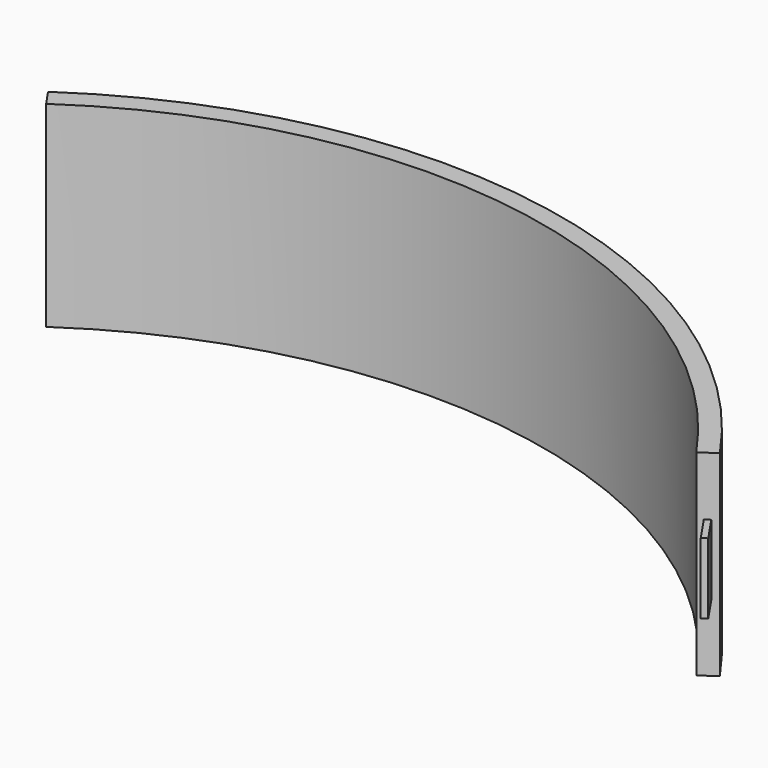
from build123d import *

# Parameters (mm, degrees)
F1_DEPTH = 50
F3_W     = 1.5
F3_H     = 18
F4_DEPTH = 8
F6_W     = 2
F6_H     = 20
F7_DEPTH = 8


with BuildPart() as f1:
    # F0 (on Top) → F1 (new body)
    with BuildSketch(Plane.XY):
        with BuildLine():
            Line((115.8960640123, 79.0640294468), (119.7818013352, 81.7148705494))
            ThreePointArc((119.7818013352, 81.7148705494), (26.9173848976, 142.4796630761), (-81.7148705494, 119.7818013352))
            Line((-81.7148705494, 119.7818013352), (-78.783015845, 115.4841400235))
            ThreePointArc((-78.783015845, 115.4841400235), (26.1029639495, 137.6126214945), (115.8960640123, 79.0640294468))
        make_face()
    extrude(amount=F1_DEPTH)

    # F3 (on offset) → F4 (join)
    with BuildSketch(Plane(origin=(0, 0, 0), x_dir=(0.8260813885, 0.5635508314, 0), z_dir=(0.5635508314, -0.8260813885, 0))):
        with Locations((142.5461810097, 26)):
            Rectangle(F3_W, F3_H)
    extrude(amount=F4_DEPTH)

    # F6 (on offset) → F7 (cut)
    with BuildSketch(Plane(origin=(0, 0, 0), x_dir=(0.5635508314, -0.8260813885, 0), z_dir=(-0.8260813885, -0.5635508314, 0))):
        with Locations((-142.2975328202, 25)):
            Rectangle(F6_W, F6_H)
    extrude(amount=-F7_DEPTH, mode=Mode.SUBTRACT)


solid = f1.part
